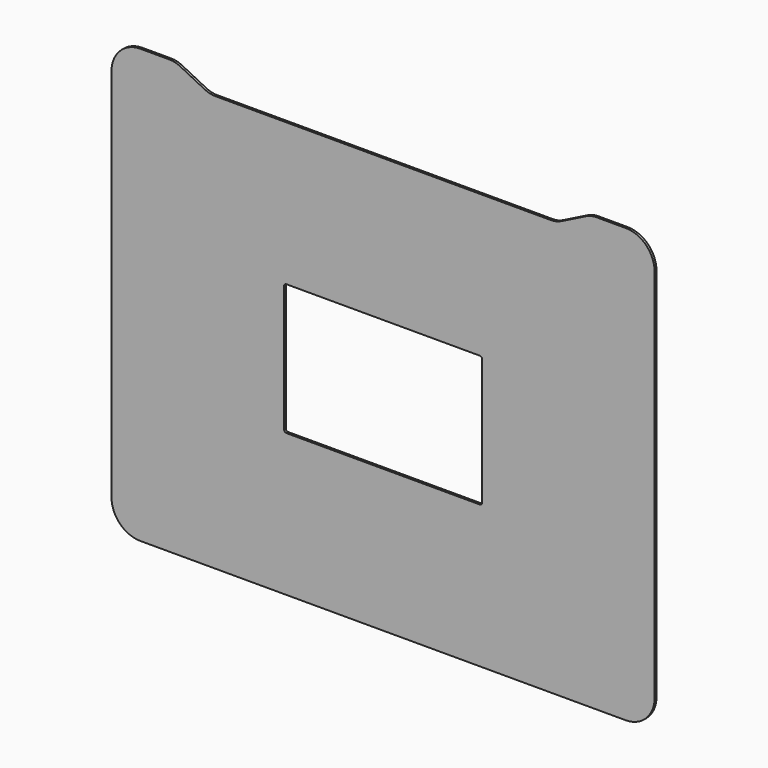
from build123d import *

# Parameters (mm, degrees)
F1_DEPTH = 2
F3_DEPTH = 25.4
F4_R     = 20


with BuildPart() as f1:
    # F0 (on Front) → F1 (new body)
    with BuildSketch(Plane.XZ):
        with BuildLine():
            ThreePointArc((177.655664, -174.737987), (195.333333, -167.415657), (202.655664, -149.737987))
            Line((202.655664, -149.737987), (202.655664, 175.262013))
            ThreePointArc((202.655664, 175.262013), (195.333333, 192.939682), (177.655664, 200.262013))
            Line((177.655664, 200.262013), (147.655664, 200.262013))
            Line((147.655664, 200.262013), (117.655664, 185.262013))
            Line((117.655664, 185.262013), (-32.344336, 185.262013))
            Line((-32.344336, 185.262013), (-182.344336, 185.262013))
            Line((-182.344336, 185.262013), (-212.344336, 200.262013))
            Line((-212.344336, 200.262013), (-242.344336, 200.262013))
            ThreePointArc((-242.344336, 200.262013), (-260.022006, 192.939682), (-267.344336, 175.262013))
            Line((-267.344336, 175.262013), (-267.344336, -149.737987))
            ThreePointArc((-267.344336, -149.737987), (-260.022006, -167.415657), (-242.344336, -174.737987))
            Line((-242.344336, -174.737987), (177.655664, -174.737987))
        make_face()
    extrude(amount=F1_DEPTH)

    # F2 (on face) → F3 (cut)
    with BuildSketch(Plane.XZ.offset(2)):
        with BuildLine():
            Line((-116.005836, -51.443487), (51.317164, -51.443487))
            ThreePointArc((51.317164, -51.443487), (52.731377, -50.857701), (53.317164, -49.443487))
            Line((53.317164, -49.443487), (53.317164, 59.967513))
            ThreePointArc((53.317164, 59.967513), (52.731377, 61.381726), (51.317164, 61.967513))
            Line((51.317164, 61.967513), (-116.005836, 61.967513))
            ThreePointArc((-116.005836, 61.967513), (-117.42005, 61.381726), (-118.005836, 59.967513))
            Line((-118.005836, 59.967513), (-118.005836, -49.443487))
            ThreePointArc((-118.005836, -49.443487), (-117.42005, -50.857701), (-116.005836, -51.443487))
        make_face()
    extrude(amount=-F3_DEPTH, mode=Mode.SUBTRACT)

    # F4
    f4_edges = [f1.edges().sort_by_distance(p)[0] for p in [
        (147.655664, -1, 200.262013),
        (117.655664, -1, 185.262013),
        (-212.344336, -1, 200.262013),
        (-182.344336, -1, 185.262013),
    ]]
    fillet(f4_edges, radius=F4_R)


solid = f1.part
